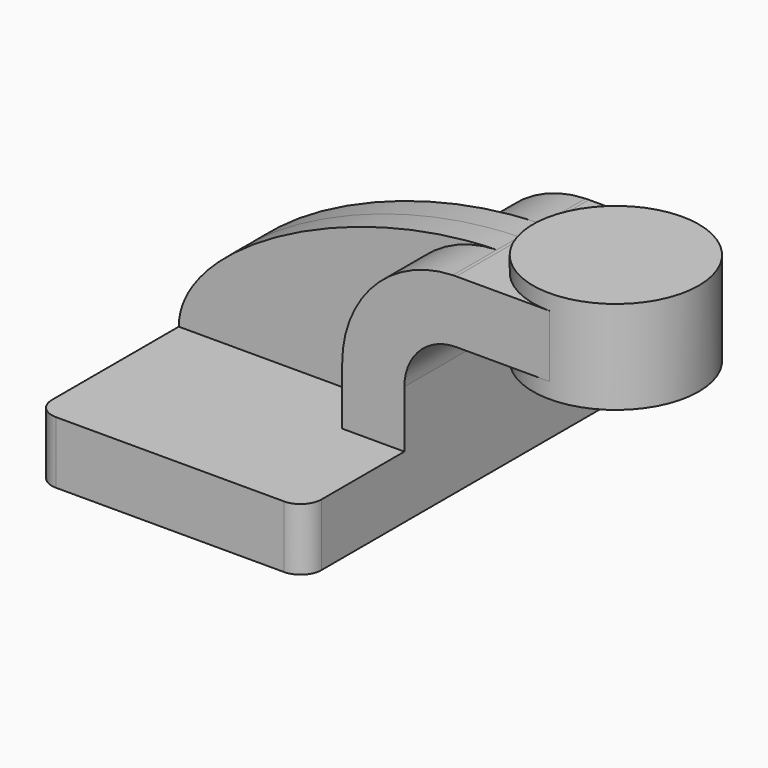
from build123d import *

# Parameters (mm, degrees)
F1_DEPTH = 63.5
F0_W     = 25.4
F0_H     = 19.05
F2_DEPTH = 25.4
F3_DEPTH = 8.5725
F5_R     = 6.35


with BuildPart() as f1:
    # F0 (on Front) → F1 (new body, symmetric)
    with BuildSketch(Plane.XZ):
        Polygon((-41.275, 9.525), (-41.275, -9.525), (41.275, -9.525), (41.275, 9.525), (22.225, 9.525), align=None)
    extrude(amount=F1_DEPTH, both=True)

    # F0 (on Front) → F2 (join, symmetric)
    with BuildSketch(Plane.XZ):
        with BuildLine():
            Line((22.225, 9.525), (41.275, 9.525))
            Line((41.275, 9.525), (41.275, 27.0002))
            ThreePointArc((41.275, 27.0002), (45.9246798487, 38.2255201513), (57.15, 42.8752))
            Line((57.15, 42.8752), (60.325, 42.8752))
            Line((60.325, 42.8752), (60.325, 61.9252))
            Line((60.325, 61.9252), (57.15, 61.9252))
            add(Edge.make_bspline(
                [(56.1238979845, 61.9101232261), (56.4661986033, 61.9166358314), (56.8082401142, 61.9216656861), (57.15, 61.9252)],
                knots=[110.6863449834, 110.6863449834, 110.6863449834, 110.6863449834, 111.5045361635, 111.5045361635, 111.5045361635, 111.5045361635], degree=3))
            ThreePointArc((56.1238979845, 61.9101232261), (32.0941400278, 51.3304179615), (22.225, 27.0002))
            Line((22.225, 27.0002), (22.225, 9.525))
        make_face()
        with Locations((73.025, 52.4002)):
            Rectangle(F0_W, F0_H)
        with Locations((73.025, 52.4002)):
            Rectangle(F0_W, F0_H)
    extrude(amount=F2_DEPTH, both=True)

    # F0 (on Front) → F3 (join, symmetric)
    with BuildSketch(Plane.XZ):
        with BuildLine():
            add(Edge.make_bspline(
                [(-41.275, 9.525), (-41.2321390497, 33.0120007106), (9.8168669335, 61.0290865026), (56.1238979845, 61.9101232261)],
                knots=[0, 0, 0, 0, 110.6863449834, 110.6863449834, 110.6863449834, 110.6863449834], degree=3))
            Line((-41.275, 9.525), (22.225, 9.525))
            Line((22.225, 9.525), (22.225, 27.0002))
            ThreePointArc((22.225, 27.0002), (32.0941400278, 51.3304179615), (56.1238979845, 61.9101232261))
        make_face()
    extrude(amount=F3_DEPTH, both=True)

    # F0 (on Front) → F4 (revolve)
    with BuildSketch(Plane.XZ):
        Polygon((85.725, 66.675), (85.725, 61.9252), (85.725, 42.8752), (85.725, 38.1), (111.125, 38.1), (111.125, 66.675), align=None)
    revolve(axis=Axis((85.725, 0, 52.3875), (0, 0, 1)))

    # F5
    f5_edges = [f1.edges().sort_by_distance(p)[0] for p in [
        (-41.275, -63.5, 0),
        (41.275, -63.5, 0),
        (41.275, 63.5, 0),
        (-41.275, 63.5, 0),
    ]]
    fillet(f5_edges, radius=F5_R)


solid = f1.part
